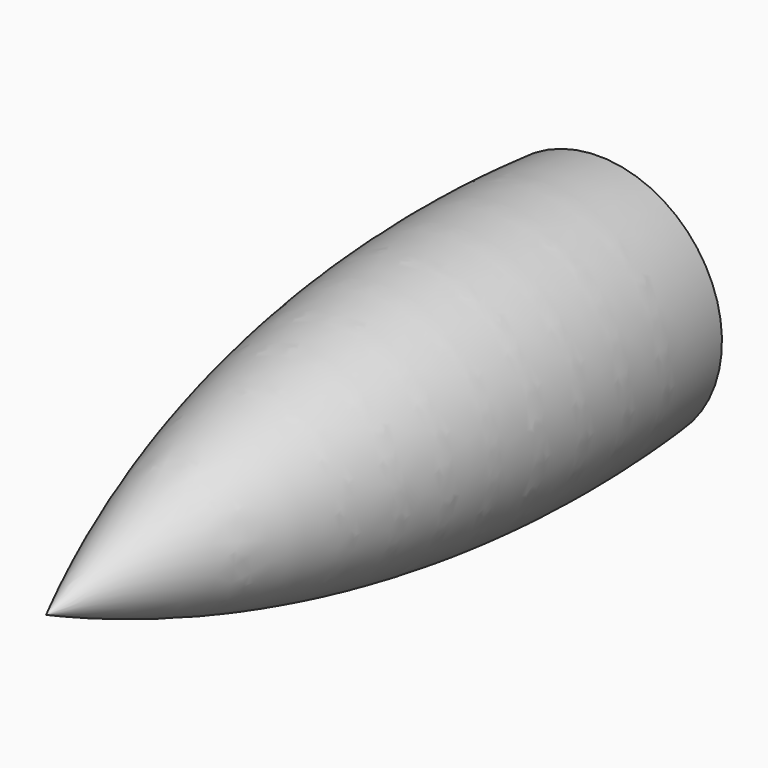
from build123d import *


with BuildPart() as f2:
    # F0 (on Right) → F2 (revolve)
    with BuildSketch(Plane.YZ):
        with BuildLine():
            Line((0, 0), (0, 1.9929986447))
            ThreePointArc((0, 1.9929986447), (-14.7267014649, 2.2451337317), (-28.9343260229, 6.1287805438))
            Line((-28.9343260229, 6.1287805438), (-34.3812778592, 6.1287805438))
            ThreePointArc((-34.3812778592, 6.1287805438), (-17.5984421108, 0.7766930072), (0, 0))
        make_face()
    revolve(axis=Axis((0, 0, 6.1287805438), (0, -1, 0)))


solid = f2.part
